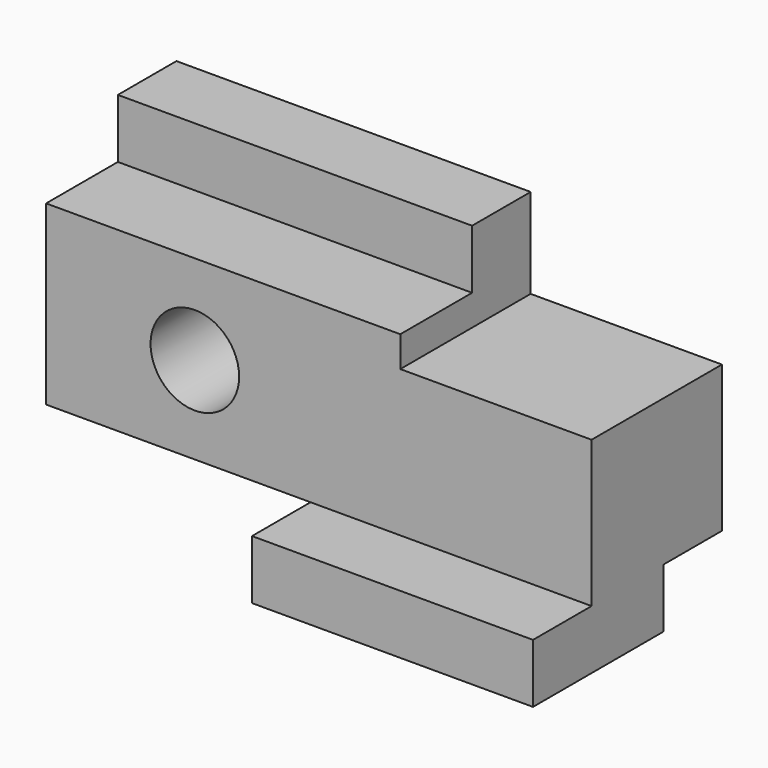
from build123d import *

# Parameters (mm, degrees)
F0_W      = 117.348
F0_H      = 63.5
F1_DEPTH  = 50.8
F2_W      = 56.896
F2_H      = 12.7
F3_DEPTH  = 50.8
F5_DEPTH  = 15.748
F6_R      = 9.525
F7_DEPTH  = 35.053
F8_W      = 15.748
F8_H      = 12.7
F9_DEPTH  = 117.349
F10_W     = 41.148
F10_H     = 35.052
F11_DEPTH = 19.304
F12_W     = 19.304
F12_H     = 12.7
F13_DEPTH = 76.201


with BuildPart() as f1:
    # F0 (on Front) → F1 (new body)
    with BuildSketch(Plane.XZ):
        Rectangle(F0_W, F0_H)
    extrude(amount=F1_DEPTH)

    # F2 (on face) → F3 (cut)
    with BuildSketch(Plane.XZ.offset(50.8)):
        with Locations((-30.226, -25.4)):
            Rectangle(F2_W, F2_H)
    extrude(amount=-F3_DEPTH, mode=Mode.SUBTRACT)

    # F4 (on face) → F5 (cut)
    with BuildSketch(Plane.XZ.offset(50.8)):
        Polygon((58.674, 31.75), (-58.674, 31.75), (-58.674, -19.05), (-1.778, -19.05), (58.674, -19.05), align=None)
    extrude(amount=-F5_DEPTH, mode=Mode.SUBTRACT)

    # F6 (on face) → F7 (cut, through all)
    with BuildSketch(Plane.XZ.offset(35.052)):
        with Locations((-26.67, -0.254)):
            Circle(F6_R)
    extrude(amount=-F7_DEPTH, mode=Mode.SUBTRACT)

    # F8 (on face) → F9 (cut, through all)
    with BuildSketch(Plane.YZ.offset(58.674)):
        with Locations((-7.874, -25.4)):
            Rectangle(F8_W, F8_H)
    extrude(amount=-F9_DEPTH, mode=Mode.SUBTRACT)

    # F10 (on face) → F11 (cut)
    with BuildSketch(Plane.XY.offset(31.75)):
        with Locations((38.1, -17.526)):
            Rectangle(F10_W, F10_H)
    extrude(amount=-F11_DEPTH, mode=Mode.SUBTRACT)

    # F12 (on face) → F13 (cut, through all)
    with BuildSketch(Plane.YZ.offset(17.526)):
        with Locations((-25.4, 25.4)):
            Rectangle(F12_W, F12_H)
    extrude(amount=-F13_DEPTH, mode=Mode.SUBTRACT)


solid = f1.part
